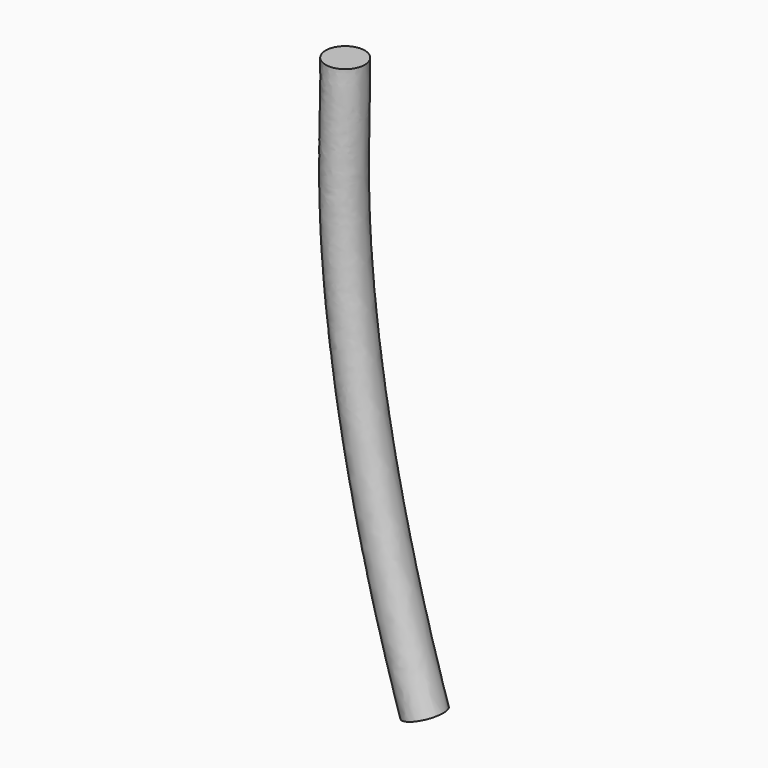
from build123d import *

# Parameters (mm, degrees)
F0_R = 2.5


with BuildPart() as f2:
    # F2: sweep along a path in F1
    with BuildLine(Plane.XZ) as f2_path:
        add(Plane.XZ * Edge.make_bspline(
            [(0, 0), (0, -6.8687247112), (-0.8960419514, -19.7832035978), (3.022084944, -48.0097942054), (10.1676378399, -70.5291107297)],
            knots=[0, 0, 0, 0, 0.3722519836, 1, 1, 1, 1], degree=3))
    # F0 (on Top) → F2 (sweep)
    with BuildSketch(Plane.XY):
        Circle(F0_R)
    sweep(path=f2_path.line)


solid = f2.part
